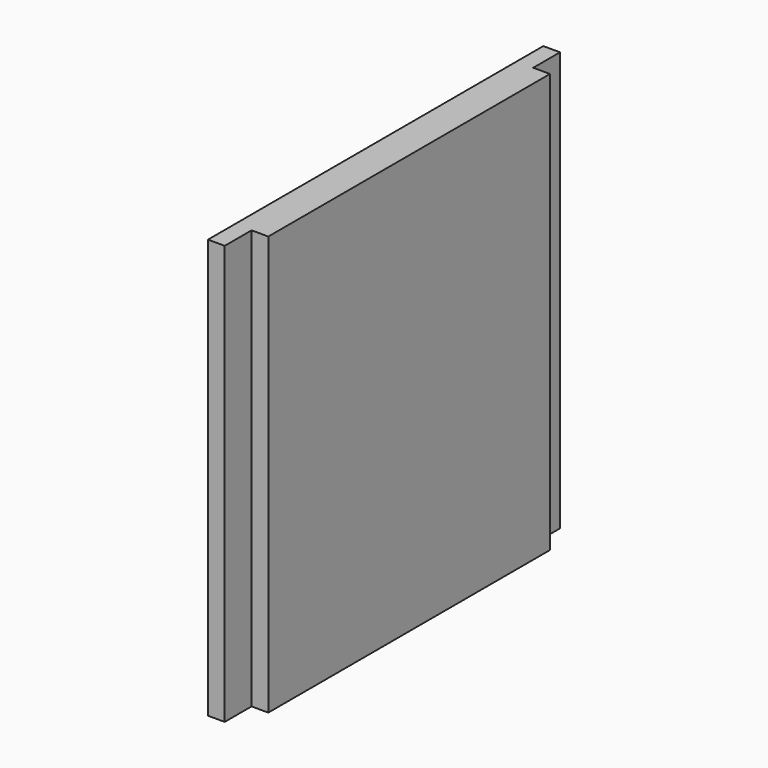
from build123d import *

# Parameters (mm, degrees)
F1_DEPTH = 75


with BuildPart() as f1:
    # F0 (on Top) → F1 (new body, symmetric)
    with BuildSketch(Plane.XY):
        Polygon((0, 63), (0, 75), (-6, 75), (-6, -75), (0, -75), (0, -63), (6, -63), (6, 63), align=None)
    extrude(amount=F1_DEPTH, both=True)


solid = f1.part
